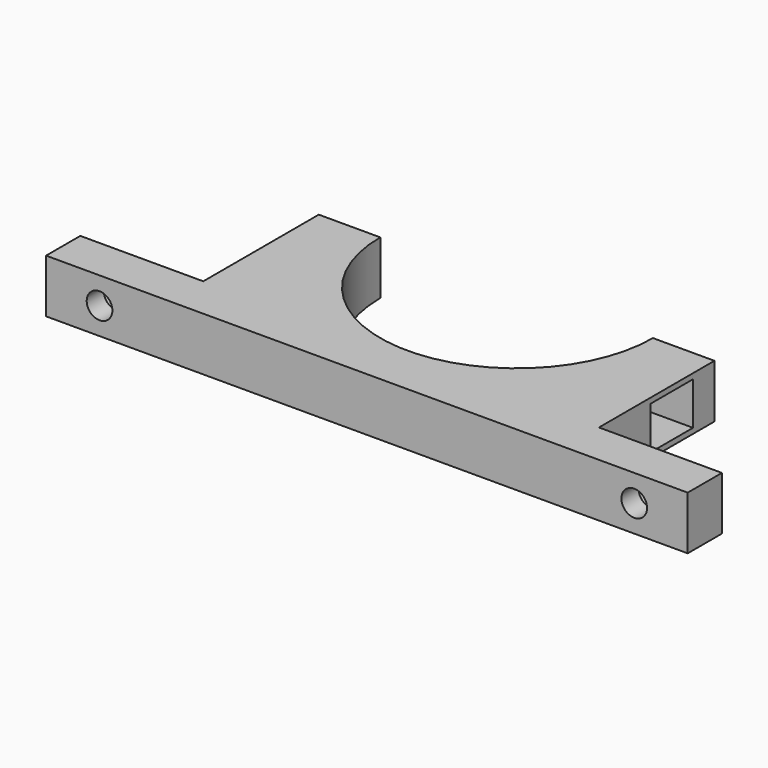
from build123d import *

# Parameters (mm, degrees)
BOX008_W                  = 200
BOX008_H                  = 200
BOX008_DEPTH              = 10
CYLINDER014_R             = 4
CYLINDER014_DEPTH         = 4
CYLINDER015_R             = 2.4
CYLINDER015_DEPTH         = 10
FUSION014_PLACEMENT_ANGLE = 90
CYLINDER016_R             = 4
CYLINDER016_DEPTH         = 4
CYLINDER017_R             = 2.4
CYLINDER017_DEPTH         = 10
FUSION015_PLACEMENT_ANGLE = 90
BOX007_W                  = 120
BOX007_H                  = 8
BOX007_DEPTH              = 10
CYLINDER012_R             = 4
CYLINDER012_DEPTH         = 10
CYLINDER013_R             = 4
CYLINDER013_DEPTH         = 10
CYLINDER010_R             = 2.4
CYLINDER010_DEPTH         = 100
CYLINDER011_R             = 2.4
CYLINDER011_DEPTH         = 100
EXTRUDE_DEPTH             = 2.4
LINK003_PLACEMENT_ANGLE   = 90
BOX006_W                  = 11
BOX006_H                  = 10
BOX006_DEPTH              = 8
FUSION010_PLACEMENT_ANGLE = 180
BOX005_W                  = 10
BOX005_H                  = 10
BOX005_DEPTH              = 8
LINK002_SCALE_SCALE       = 1.1
LINK002_PLACEMENT_ANGLE   = 90
CYLINDER009_R             = 25.5
CYLINDER009_DEPTH         = 10
BOX004_W                  = 74
BOX004_H                  = 70
BOX004_DEPTH              = 10
BOX010_W                  = 10
BOX010_H                  = 0.2
BOX010_DEPTH              = 10
BOX011_W                  = 10
BOX011_H                  = 0.2
BOX011_DEPTH              = 10
BOX012_W                  = 10
BOX012_H                  = 0.2
BOX012_DEPTH              = 10
BOX013_W                  = 10
BOX013_H                  = 0.2
BOX013_DEPTH              = 10


with BuildPart() as cube008:
    # Box008 → Box008 (new body)
    with BuildSketch(Plane(origin=(-100, 0, 0), x_dir=(1, 0, 0), z_dir=(0, 0, 1))):
        with Locations((100, 100)):
            Rectangle(BOX008_W, BOX008_H)
    extrude(amount=BOX008_DEPTH)


with BuildPart() as cylinder014:
    # Cylinder014 → Cylinder014 (new body)
    with BuildSketch(Plane.XY):
        Circle(CYLINDER014_R)
    extrude(amount=CYLINDER014_DEPTH)


with BuildPart() as fusion014:
    # Cylinder015 → Cylinder015 (new body)
    with BuildSketch(Plane.XY):
        Circle(CYLINDER015_R)
    extrude(amount=CYLINDER015_DEPTH)

    # Fusion014: union Cylinder014
    add(cylinder014.part)


with BuildPart() as fusion014_1:
    # Fusion014 placement: moved
    add(fusion014.part.moved(Location((-50, -27, 5))).rotate(Axis((-50, -27, 5), (1, 0, 0)), FUSION014_PLACEMENT_ANGLE))


with BuildPart() as cylinder016:
    # Cylinder016 → Cylinder016 (new body)
    with BuildSketch(Plane.XY):
        Circle(CYLINDER016_R)
    extrude(amount=CYLINDER016_DEPTH)


with BuildPart() as fusion016:
    # Cylinder017 → Cylinder017 (new body)
    with BuildSketch(Plane.XY):
        Circle(CYLINDER017_R)
    extrude(amount=CYLINDER017_DEPTH)

    # Fusion015: union Cylinder016
    add(cylinder016.part)


with BuildPart() as fusion016_1:
    # Fusion015 placement: moved
    add(fusion016.part.moved(Location((50, -27, 5))).rotate(Axis((50, -27, 5), (1, 0, 0)), FUSION015_PLACEMENT_ANGLE))

    # Fusion016: union Fusion014
    add(fusion014_1.part)


with BuildPart() as cut009:
    # Box007 → Box007 (new body)
    with BuildSketch(Plane(origin=(-60, -35, 0), x_dir=(1, 0, 0), z_dir=(0, 0, 1))):
        with Locations((60, 4)):
            Rectangle(BOX007_W, BOX007_H)
    extrude(amount=BOX007_DEPTH)

    # Cut009: cut Fusion016
    add(fusion016_1.part, mode=Mode.SUBTRACT)


with BuildPart() as cylinder012:
    # Cylinder012 → Cylinder012 (new body)
    with BuildSketch(Plane(origin=(31, 35, 5), x_dir=(1, 0, 0), z_dir=(0, -1, 0))):
        Circle(CYLINDER012_R)
    extrude(amount=CYLINDER012_DEPTH)


with BuildPart() as fusion013:
    # Cylinder013 → Cylinder013 (new body)
    with BuildSketch(Plane(origin=(-31, 35, 5), x_dir=(1, 0, 0), z_dir=(0, -1, 0))):
        Circle(CYLINDER013_R)
    extrude(amount=CYLINDER013_DEPTH)

    # Fusion013: union Cylinder012
    add(cylinder012.part)


with BuildPart() as cylinder010:
    # Cylinder010 → Cylinder010 (new body)
    with BuildSketch(Plane(origin=(-31, 94, 5), x_dir=(1, 0, 0), z_dir=(0, -1, 0))):
        Circle(CYLINDER010_R)
    extrude(amount=CYLINDER010_DEPTH)


with BuildPart() as fusion012:
    # Cylinder011 → Cylinder011 (new body)
    with BuildSketch(Plane(origin=(31, 94, 5), x_dir=(1, 0, 0), z_dir=(0, -1, 0))):
        Circle(CYLINDER011_R)
    extrude(amount=CYLINDER011_DEPTH)

    # Fusion012: union Cylinder010
    add(cylinder010.part)


with BuildPart() as din934_m006:
    # Sketch → Extrude (new body)
    with BuildSketch(Plane.XY):
        Polygon((-3.005, 0), (-1.5025, -2.602406), (1.5025, -2.602406), (3.005, 0), (1.5025, 2.602406), (-1.5025, 2.602406), align=None)
    extrude(amount=EXTRUDE_DEPTH)


with BuildPart() as din934_m008:
    # Link003 base: copy of DIN934_M006
    add(din934_m006.part)


with BuildPart() as din934_m008_1:
    # Link003 placement: moved
    add(din934_m008.part.moved(Location((-31, -3, 5))).rotate(Axis((-31, -3, 5), (1, 0, 0)), LINK003_PLACEMENT_ANGLE))


with BuildPart() as fusion010:
    # Box006 → Box006 (new body)
    with BuildSketch(Plane(origin=(-39, -15, 1), x_dir=(1, 0, 0), z_dir=(0, 0, 1))):
        with Locations((5.5, 5)):
            Rectangle(BOX006_W, BOX006_H)
    extrude(amount=BOX006_DEPTH)

    # Fusion010: union DIN934_M008
    add(din934_m008_1.part)


with BuildPart() as fusion010_1:
    # Fusion010 placement: moved
    add(fusion010.part.moved(Location((0, 0, 10))).rotate(Axis((0, 0, 10), (0, 1, 0)), FUSION010_PLACEMENT_ANGLE))


with BuildPart() as cube005:
    # Box005 → Box005 (new body)
    with BuildSketch(Plane(origin=(-37, -15, 1), x_dir=(1, 0, 0), z_dir=(0, 0, 1))):
        with Locations((5, 5)):
            Rectangle(BOX005_W, BOX005_H)
    extrude(amount=BOX005_DEPTH)


with BuildPart() as fusion011:
    # Link002 base: copy of DIN934_M006
    add(din934_m006.part)


with BuildPart() as fusion011_1:
    # Link002 scale: moved
    add(fusion011.part.scale(LINK002_SCALE_SCALE))


with BuildPart() as fusion011_2:
    # Link002 placement: moved
    add(fusion011_1.part.moved(Location((-31, -3, 5))).rotate(Axis((-31, -3, 5), (1, 0, 0)), LINK002_PLACEMENT_ANGLE))

    # Fusion009: union Cube005
    add(cube005.part)

    # Fusion011: union Fusion010
    add(fusion010_1.part)


with BuildPart() as cylinder009:
    # Cylinder009 → Cylinder009 (new body)
    with BuildSketch(Plane.XY):
        Circle(CYLINDER009_R)
    extrude(amount=CYLINDER009_DEPTH)


with BuildPart() as lowerpart:
    # Box004 → Box004 (new body)
    with BuildSketch(Plane(origin=(-37, -35, 0), x_dir=(1, 0, 0), z_dir=(0, 0, 1))):
        with Locations((37, 35)):
            Rectangle(BOX004_W, BOX004_H)
    extrude(amount=BOX004_DEPTH)

    # Cut005: cut Cylinder009
    add(cylinder009.part, mode=Mode.SUBTRACT)

    # Cut006: cut Fusion011
    add(fusion011_2.part, mode=Mode.SUBTRACT)

    # Cut007: cut Fusion012
    add(fusion012.part, mode=Mode.SUBTRACT)

    # Cut008: cut Fusion013
    add(fusion013.part, mode=Mode.SUBTRACT)

    # Fusion017: union Cut009
    add(cut009.part)

    # Cut011: cut Cube008
    add(cube008.part, mode=Mode.SUBTRACT)


with BuildPart() as cube010:
    # Box010 → Box010 (new body)
    with BuildSketch(Plane(origin=(-37, -5, 0), x_dir=(1, 0, 0), z_dir=(0, 0, 1))):
        with Locations((5, 0.1)):
            Rectangle(BOX010_W, BOX010_H)
    extrude(amount=BOX010_DEPTH)


with BuildPart() as cube011:
    # Box011 → Box011 (new body)
    with BuildSketch(Plane(origin=(-37, -3, 0), x_dir=(1, 0, 0), z_dir=(0, 0, 1))):
        with Locations((5, 0.1)):
            Rectangle(BOX011_W, BOX011_H)
    extrude(amount=BOX011_DEPTH)


with BuildPart() as cube012:
    # Box012 → Box012 (new body)
    with BuildSketch(Plane(origin=(27, -3, 0), x_dir=(1, 0, 0), z_dir=(0, 0, 1))):
        with Locations((5, 0.1)):
            Rectangle(BOX012_W, BOX012_H)
    extrude(amount=BOX012_DEPTH)


with BuildPart() as lowerpart_print:
    # Box013 → Box013 (new body)
    with BuildSketch(Plane(origin=(27, -5, 0), x_dir=(1, 0, 0), z_dir=(0, 0, 1))):
        with Locations((5, 0.1)):
            Rectangle(BOX013_W, BOX013_H)
    extrude(amount=BOX013_DEPTH)

    # Fusion018: union Cube010, Cube011, Cube012
    add(cube010.part)
    add(cube011.part)
    add(cube012.part)

    # Fusion019: union LowerPart
    add(lowerpart.part)


solid = lowerpart_print.part
